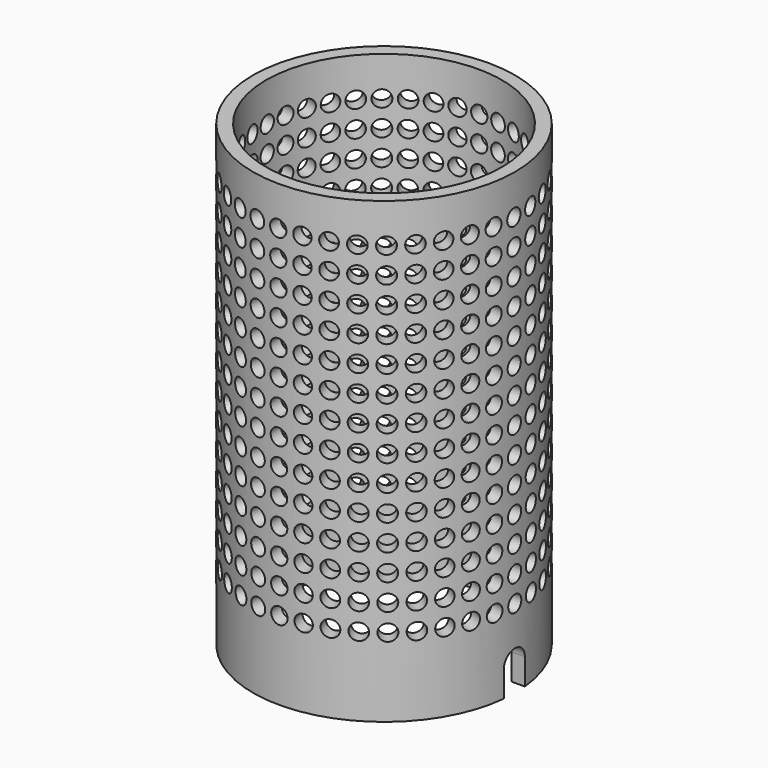
from build123d import *

# Parameters (mm, degrees)
EXTRUDE005_DEPTH   = 20
SKETCH_R           = 20
SKETCH_R_2         = 18
EXTRUDE_DEPTH      = 70
SKETCH006_R        = 1.25
POCKET_DEPTH       = 4
POLARPATTERN_COUNT = 36


with BuildPart() as extrude005:
    # Sketch004 → Extrude005 (new body, symmetric)
    with BuildSketch(Plane.YZ):
        with BuildLine():
            Line((2, 4), (2, 0))
            Line((2, 0), (-2, 0))
            Line((-2, 0), (-2, 4))
            ThreePointArc((2, 4), (0, 6), (-2, 4))
        make_face()
    extrude(amount=EXTRUDE005_DEPTH, both=True)


with BuildPart() as extrude005_1:
    # Extrude005 placement: moved
    add(extrude005.part.moved(Location((10, 0, 0))))


with BuildPart() as body:
    # Sketch → Extrude (new body)
    with BuildSketch(Plane.XY):
        Circle(SKETCH_R)
        Circle(SKETCH_R_2, mode=Mode.SUBTRACT)
    extrude(amount=EXTRUDE_DEPTH)

    # Cut: cut Extrude005
    add(extrude005_1.part, mode=Mode.SUBTRACT)

    # Sketch006 → Pocket (cut)
    with BuildSketch(Plane(origin=(20, 0, 12), x_dir=(0, 1, 0), z_dir=(1, 0, 0))):
        Circle(SKETCH006_R)
        with Locations((-0.013333, 3.999978)):
            Circle(SKETCH006_R)
        with Locations((-0.026665, 7.999956)):
            Circle(SKETCH006_R)
        with Locations((-0.039998, 11.999933)):
            Circle(SKETCH006_R)
        with Locations((-0.053331, 15.999911)):
            Circle(SKETCH006_R)
        with Locations((-0.066663, 19.999889)):
            Circle(SKETCH006_R)
        with Locations((-0.079996, 23.999867)):
            Circle(SKETCH006_R)
        with Locations((-0.093328, 27.999844)):
            Circle(SKETCH006_R)
        with Locations((-0.106661, 31.999822)):
            Circle(SKETCH006_R)
        with Locations((-0.119994, 35.9998)):
            Circle(SKETCH006_R)
        with Locations((-0.133326, 39.999778)):
            Circle(SKETCH006_R)
        with Locations((-0.146659, 43.999756)):
            Circle(SKETCH006_R)
        with Locations((-0.159992, 47.999733)):
            Circle(SKETCH006_R)
        with Locations((-0.173324, 51.999711)):
            Circle(SKETCH006_R)
    pocket = extrude(amount=-POCKET_DEPTH, mode=Mode.SUBTRACT)

    # PolarPattern: Pocket ×36 about axis
    polarpattern_axis = Axis((0, 0, 0), (0, 0, -1))
    for i in range(1, POLARPATTERN_COUNT):
        add(pocket.rotate(polarpattern_axis, i * 360 / POLARPATTERN_COUNT), mode=Mode.SUBTRACT)


solid = body.part
